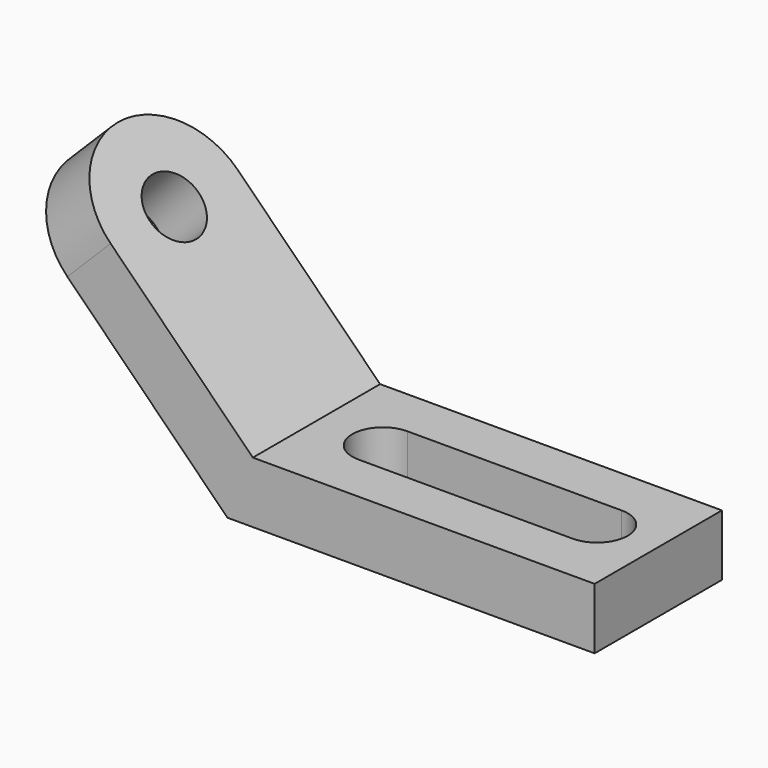
from build123d import *

# Parameters (mm, degrees)
F1_DEPTH = 52
F2_R     = 10
F3_DEPTH = 144.8538137424
F5_DEPTH = 84.8538137424


with BuildPart() as f1:
    # F0 (on Front) → F1 (new body)
    with BuildSketch(Plane.XZ):
        Polygon((-130.7106781187, 60.7106781187), (-60, -10), (-60, 10), (-51.7157287525, 10), (-116.5685424949, 74.8528137424), align=None)
        Polygon((-60, -10), (60, -10), (60, 10), (-51.7157287525, 10), (-60, 10), align=None)
    extrude(amount=F1_DEPTH)

    # F2 (on face) → F3 (cut, through all)
    with BuildSketch(Plane(origin=(-35, 0, -35), x_dir=(0.7071067812, 0, -0.7071067812), z_dir=(-0.7071067812, 0, -0.7071067812))):
        with Locations((-109.3553390593, 26)):
            Circle(F2_R)
        with BuildLine():
            ThreePointArc((-135.3553390593, 26), (-127.7401153702, 44.3847763109), (-109.3553390593, 52))
            Line((-109.3553390593, 52), (-135.3553390593, 52))
            Line((-135.3553390593, 52), (-135.3553390593, 26))
        make_face()
        with BuildLine():
            Line((-135.3553390593, 0), (-109.3553390593, 0))
            ThreePointArc((-109.3553390593, 0), (-127.7401153702, 7.6152236891), (-135.3553390593, 26))
            Line((-135.3553390593, 26), (-135.3553390593, 0))
        make_face()
    extrude(amount=-F3_DEPTH, mode=Mode.SUBTRACT)

    # F4 (on face) → F5 (cut, through all)
    with BuildSketch(Plane(origin=(0, 0, -10), x_dir=(1, 0, 0), z_dir=(0, 0, -1))):
        with BuildLine():
            ThreePointArc((40, 16), (50, 26), (40, 36))
            Line((40, 36), (-30, 36))
            ThreePointArc((-30, 36), (-40, 26), (-30, 16))
            Line((-30, 16), (40, 16))
        make_face()
    extrude(amount=-F5_DEPTH, mode=Mode.SUBTRACT)


solid = f1.part
